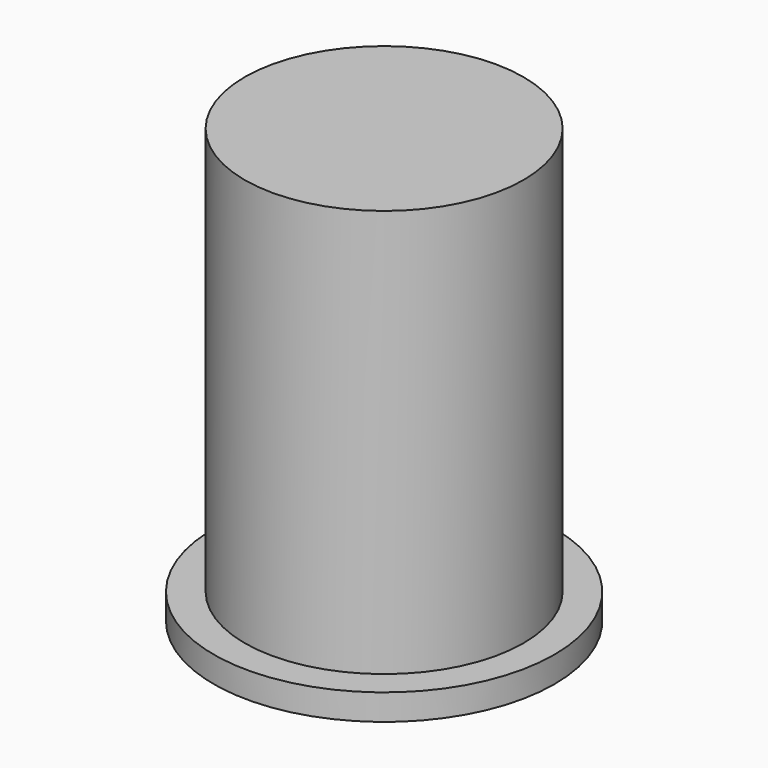
from build123d import *

# Parameters (mm, degrees)
F0_R     = 34.925
F1_DEPTH = 88.9
F2_R     = 82.168996
F2_R_2   = 28.575
F3_DEPTH = 83.566


with BuildPart() as f1:
    # F0 (on Top) → F1 (new body)
    with BuildSketch(Plane.XY):
        Circle(F0_R)
    extrude(amount=F1_DEPTH)

    # F2 (on face) → F3 (cut)
    with BuildSketch(Plane.XY.offset(88.9)):
        Circle(F2_R)
        Circle(F2_R_2, mode=Mode.SUBTRACT)
    extrude(amount=-F3_DEPTH, mode=Mode.SUBTRACT)


solid = f1.part
